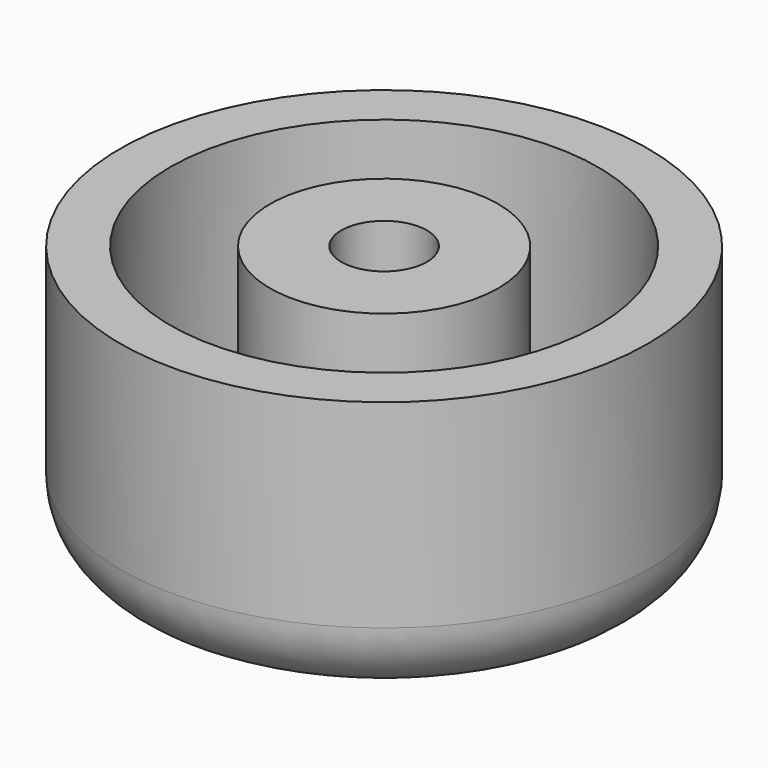
from build123d import *

# Parameters (mm, degrees)
F0_R     = 18.5
F1_DEPTH = 5
F2_R     = 18.5
F2_R_2   = 15
F3_DEPTH = 14
F4_R     = 5.069848
F5_R     = 8
F5_R_2   = 3
F6_DEPTH = 14


with BuildPart() as f1:
    # F0 (on Top) → F1 (new body)
    with BuildSketch(Plane.XY):
        Circle(F0_R)
    extrude(amount=F1_DEPTH)

    # F2 (on face) → F3 (join)
    with BuildSketch(Plane.XY.offset(5)):
        Circle(F2_R)
        Circle(F2_R_2, mode=Mode.SUBTRACT)
    extrude(amount=F3_DEPTH)

    # F4
    f4_edges = [f1.edges().sort_by_distance(p)[0] for p in [
        (-18.5, 0, 0),
    ]]
    fillet(f4_edges, radius=F4_R)

    # F5 (on face) → F6 (join)
    with BuildSketch(Plane.XY.offset(5)):
        Circle(F5_R)
        Circle(F5_R_2, mode=Mode.SUBTRACT)
    extrude(amount=F6_DEPTH)


solid = f1.part
